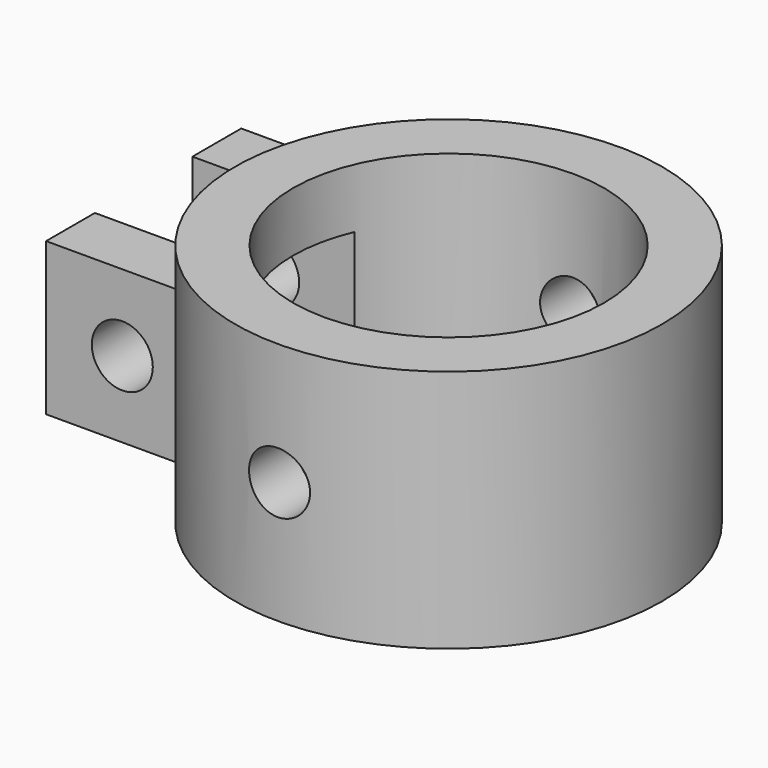
from build123d import *

# Parameters (mm, degrees)
CYLINDER004_R          = 2
CYLINDER004_DEPTH      = 16
CYLINDER004_ROLL_ANGLE = -90
BOX001_W               = 5
BOX001_H               = 8
BOX001_DEPTH           = 8.2
CYLINDER006_R          = 2
CYLINDER006_DEPTH      = 30
CYLINDER006_ROLL_ANGLE = -90
CYLINDER002_R          = 10.2
CYLINDER002_DEPTH      = 28
BOX_W                  = 10
BOX_H                  = 4
BOX_DEPTH              = 10
BOX002_W               = 10
BOX002_H               = 4
BOX002_DEPTH           = 10
CYLINDER_R             = 14
CYLINDER_DEPTH         = 16


with BuildPart() as cylinder004:
    # Cylinder004 → Cylinder004 (new body)
    with BuildSketch(Plane.XY):
        Circle(CYLINDER004_R)
    extrude(amount=CYLINDER004_DEPTH)


with BuildPart() as cylinder004_1:
    # Cylinder004 roll: moved
    add(cylinder004.part.rotate(Axis((0, 0, 0), (1, 0, 0)), CYLINDER004_ROLL_ANGLE))


with BuildPart() as cylinder004_2:
    # Cylinder004 placement: moved
    add(cylinder004_1.part.moved(Location((-25, -8, 0))))


with BuildPart() as cube001:
    # Box001 → Box001 (new body)
    with BuildSketch(Plane(origin=(-24, -4, -4.1), x_dir=(1, 0, 0), z_dir=(0, 0, 1))):
        with Locations((2.5, 4)):
            Rectangle(BOX001_W, BOX001_H)
    extrude(amount=BOX001_DEPTH)


with BuildPart() as cylinder006:
    # Cylinder006 → Cylinder006 (new body)
    with BuildSketch(Plane.XY):
        Circle(CYLINDER006_R)
    extrude(amount=CYLINDER006_DEPTH)


with BuildPart() as cylinder006_1:
    # Cylinder006 roll: moved
    add(cylinder006.part.rotate(Axis((0, 0, 0), (1, 0, 0)), CYLINDER006_ROLL_ANGLE))


with BuildPart() as cylinder006_2:
    # Cylinder006 placement: moved
    add(cylinder006_1.part.moved(Location((-10, -15, 0))))


with BuildPart() as negative_fusion:
    # Cylinder002 → Cylinder002 (new body)
    with BuildSketch(Plane(origin=(-10, 0, -10), x_dir=(1, 0, 0), z_dir=(0, 0, 1))):
        Circle(CYLINDER002_R)
    extrude(amount=CYLINDER002_DEPTH)

    # Fusion001: union Cylinder004, Cube001, Cylinder006
    add(cylinder004_2.part)
    add(cube001.part)
    add(cylinder006_2.part)


with BuildPart() as cube:
    # Box → Box (new body)
    with BuildSketch(Plane(origin=(-30, -8, -5), x_dir=(1, 0, 0), z_dir=(0, 0, 1))):
        with Locations((5, 2)):
            Rectangle(BOX_W, BOX_H)
    extrude(amount=BOX_DEPTH)


with BuildPart() as cube002:
    # Box002 → Box002 (new body)
    with BuildSketch(Plane(origin=(-30, 4, -5), x_dir=(1, 0, 0), z_dir=(0, 0, 1))):
        with Locations((5, 2)):
            Rectangle(BOX002_W, BOX002_H)
    extrude(amount=BOX002_DEPTH)


with BuildPart() as cut:
    # Cylinder → Cylinder (new body)
    with BuildSketch(Plane(origin=(-10, 0, -8), x_dir=(1, 0, 0), z_dir=(0, 0, 1))):
        Circle(CYLINDER_R)
    extrude(amount=CYLINDER_DEPTH)

    # Fusion: union Cube, Cube002
    add(cube.part)
    add(cube002.part)

    # Cut: cut Negative Fusion
    add(negative_fusion.part, mode=Mode.SUBTRACT)


solid = cut.part
